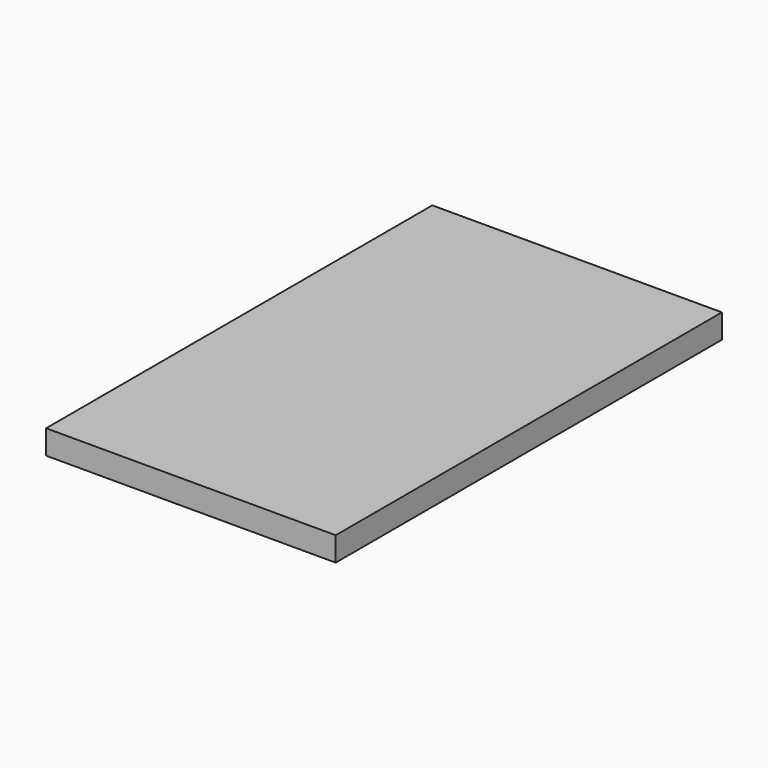
from build123d import *

# Parameters (mm, degrees)
SKETCH_W  = 120
SKETCH_H  = 200
PAD_DEPTH = 10


with BuildPart() as part:
    # Sketch → Pad (new body)
    with BuildSketch(Plane.XY):
        with Locations((60, 100)):
            Rectangle(SKETCH_W, SKETCH_H)
    extrude(amount=PAD_DEPTH)


solid = part.part
